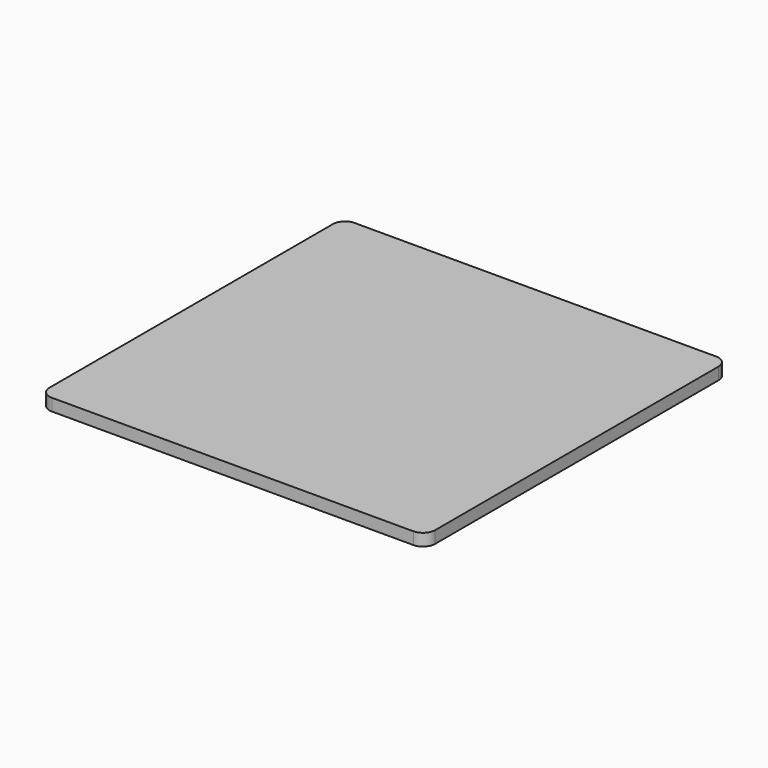
from build123d import *

# Parameters (mm, degrees)
SKETCH_W     = 31.83
SKETCH_H     = 31.24
PAD_DEPTH    = 1.5
FILLET_R     = 1
POCKET_DEPTH = 0.5


with BuildPart() as part:
    # Sketch → Pad (new body)
    with BuildSketch(Plane(origin=(0, 0, 0), x_dir=(-1, 0, 0), z_dir=(0, 0, -1))):
        with Locations((-16.895, 25.69)):
            Rectangle(SKETCH_W, SKETCH_H)
    extrude(amount=PAD_DEPTH)

    # Fillet
    fillet_edges = [part.edges().sort_by_distance(p)[0] for p in [
        (32.81, 41.31, -0.75),
        (0.98, 41.31, -0.75),
        (0.98, 10.07, -0.75),
        (32.81, 10.07, -0.75),
    ]]
    fillet(fillet_edges, radius=FILLET_R)

    # Fillet Face2 → Pocket (cut)
    with BuildSketch(Plane(origin=(16.895, 25.69, 0), x_dir=(0, 1, 0), z_dir=(0, 0, 1))):
        with BuildLine():
            Line((15.62, -14.915), (15.62, 14.915))
            ThreePointArc((15.62, 14.915), (15.327107, 15.622107), (14.62, 15.915))
            Line((14.62, 15.915), (-14.62, 15.915))
            ThreePointArc((-14.62, 15.915), (-15.327107, 15.622107), (-15.62, 14.915))
            Line((-15.62, 14.915), (-15.62, -14.915))
            ThreePointArc((-15.62, -14.915), (-15.327107, -15.622107), (-14.62, -15.915))
            Line((-14.62, -15.915), (14.62, -15.915))
            ThreePointArc((14.62, -15.915), (15.327107, -15.622107), (15.62, -14.915))
        make_face()
    extrude(amount=-POCKET_DEPTH, mode=Mode.SUBTRACT)


solid = part.part
